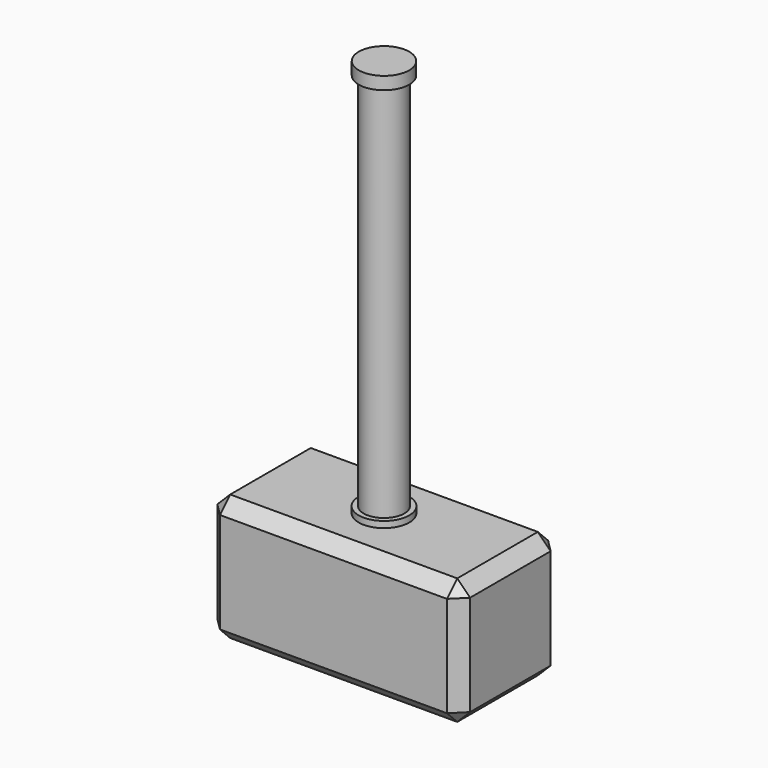
from build123d import *

# Parameters (mm, degrees)
F0_R     = 10.017948
F1_DEPTH = 2.5
F2_R     = 8.037712
F3_DEPTH = 150
F4_R     = 9.974269
F6_DEPTH = 5
F5_W     = 100
F5_H     = 50
F7_DEPTH = 50
F8_SIZE  = 5.08


with BuildPart() as f1:
    # F0 (on Top) → F1 (new body)
    with BuildSketch(Plane.XY):
        Circle(F0_R)
    extrude(amount=F1_DEPTH)

    # F2 (on face) → F3 (join)
    with BuildSketch(Plane.XY.offset(2.5)):
        Circle(F2_R)
    extrude(amount=F3_DEPTH)

    # F4 (on face) → F6 (join)
    with BuildSketch(Plane.XY.offset(152.5)):
        Circle(F4_R)
    extrude(amount=F6_DEPTH)

    # F5 (on Top) → F7 (join)
    with BuildSketch(Plane.XY):
        Rectangle(F5_W, F5_H)
        Rectangle(F5_W, F5_H)
    extrude(amount=-F7_DEPTH)

    # F8
    f8_edges = [f1.edges().sort_by_distance(p)[0] for p in [
        (-50, -25, -25),
        (50, -25, -25),
        (0, -25, 0),
        (0, -25, -50),
        (50, 25, -25),
        (-50, 25, -25),
        (0, 25, 0),
        (0, 25, -50),
        (-50, 0, -50),
        (50, 0, -50),
        (50, 0, 0),
        (-50, 0, 0),
    ]]
    chamfer(f8_edges, length=F8_SIZE)


solid = f1.part
